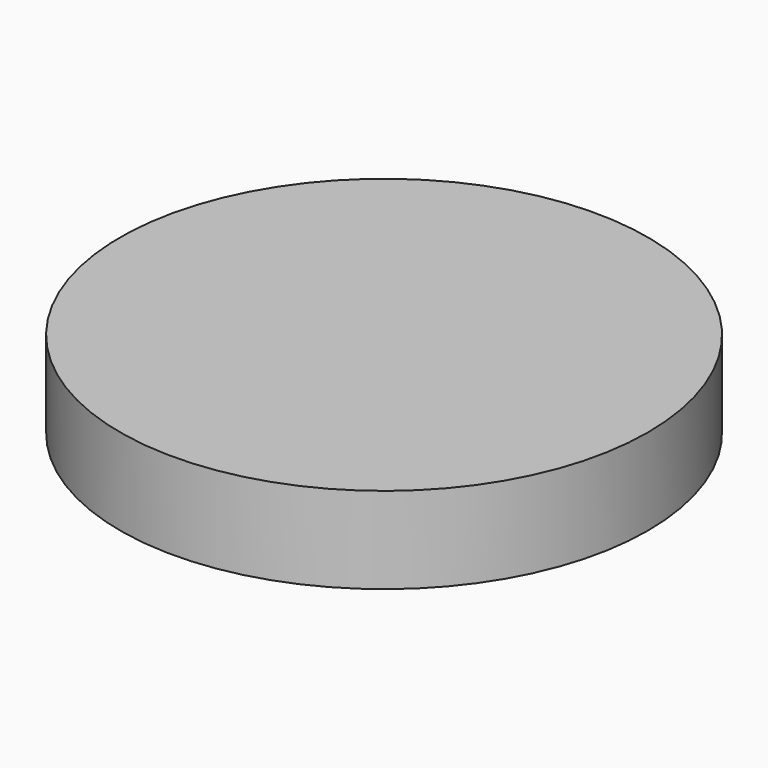
from build123d import *

# Parameters (mm, degrees)
F5_R      = 1.972161
F5_R_2    = 2.517133
F5_R_3    = 2.441644
F5_R_4    = 2.676168
F5_R_5    = 2.131362
F5_R_6    = 2.153626
F5_R_7    = 2.193513
F7_DEPTH  = 25
F0_R      = 17.090708
F8_DEPTH  = 25
F3_R      = 2.330899
F9_DEPTH  = 25
F4_R      = 2.406581
F10_DEPTH = 25
F6_R      = 76.289464
F11_DEPTH = 25


with BuildPart() as f7:
    # F5 (on Top) → F7 (new body)
    with BuildSketch(Plane.XY):
        with Locations((10.47738, 9.788939)):
            Circle(F5_R)
        with Locations((-12.493374, -0.321115)):
            Circle(F5_R_2)
        with Locations((-8.524761, -9.493174)):
            Circle(F5_R_3)
        with Locations((0.12246, -13.080394)):
            Circle(F5_R_4)
        with Locations((9.165824, -11.129929)):
            Circle(F5_R_5)
        with Locations((12.26739, -5.763358)):
            Circle(F5_R_6)
        with Locations((12.773341, 0.28163)):
            Circle(F5_R_7)
    extrude(amount=F7_DEPTH)


with BuildPart() as f8:
    # F0 (on Top) → F8 (new body)
    with BuildSketch(Plane.XY):
        Circle(F0_R)
    extrude(amount=F8_DEPTH)

    # F3 (on face) → F9 (join)
    with BuildSketch(Plane.XY):
        with Locations((-10.025119, 9.261301)):
            Circle(F3_R)
    extrude(amount=F9_DEPTH)

    # F4 (on face) → F10 (join)
    with BuildSketch(Plane.XY):
        with Locations((0.306891, 11.839189)):
            Circle(F4_R)
    extrude(amount=F10_DEPTH)


with BuildPart() as f11:
    # F6 (on Top) → F11 (new body)
    with BuildSketch(Plane.XY):
        with Locations((-0.68526, 0.572864)):
            Circle(F6_R)
    extrude(amount=F11_DEPTH)


solid = Compound([f7.part, f8.part, f11.part])
